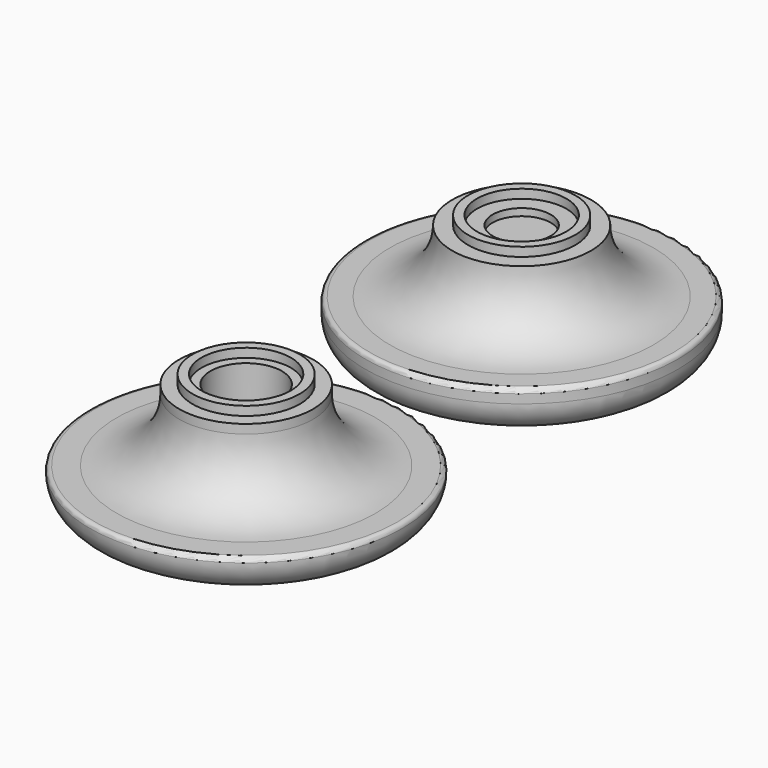
from build123d import *

# Parameters (mm, degrees)
SKETCH_R      = 17.5
PAD_DEPTH     = 5
SKETCH001_R   = 7.75
SKETCH001_R_2 = 3.25
PAD001_DEPTH  = 12
SKETCH002_R   = 6
SKETCH002_R_2 = 5
PAD002_DEPTH  = 13
FILLET_R      = 6.99
FILLET001_R   = 3.5
SKETCH003_W   = 11
SKETCH003_H   = 11
POCKET_DEPTH  = 5
FILLET002_R   = 0.5
SKETCH004_W   = 10
SKETCH004_H   = 10
SKETCH004_R   = 0.005
PAD003_DEPTH  = 0.2
SKETCH005_R   = 17.5
PAD004_DEPTH  = 4
SKETCH006_R   = 7.5
SKETCH006_R_2 = 4
PAD005_DEPTH  = 12
SKETCH007_R   = 6
SKETCH007_R_2 = 5
PAD006_DEPTH  = 13
FILLET003_R   = 6.99
FILLET004_R   = 3.5
FILLET005_R   = 0.499


with BuildPart() as knob_nut:
    # Sketch (on XY_Plane of Origin) → Pad (new body)
    with BuildSketch(Plane.XY):
        Circle(SKETCH_R)
    extrude(amount=PAD_DEPTH)

    # Sketch001 (on XY_Plane of Origin) → Pad001 (join)
    with BuildSketch(Plane.XY):
        Circle(SKETCH001_R)
        Circle(SKETCH001_R_2, mode=Mode.SUBTRACT)
    extrude(amount=PAD001_DEPTH)

    # Sketch002 (on XY_Plane of Origin) → Pad002 (join)
    with BuildSketch(Plane.XY):
        Circle(SKETCH002_R)
        Circle(SKETCH002_R_2, mode=Mode.SUBTRACT)
    extrude(amount=PAD002_DEPTH)

    # Fillet
    fillet_edges = [knob_nut.edges().sort_by_distance(p)[0] for p in [
        (-7.75, 0, 5),
    ]]
    fillet(fillet_edges, radius=FILLET_R)

    # Fillet001
    fillet001_edges = [knob_nut.edges().sort_by_distance(p)[0] for p in [
        (-17.5, 0, 0),
    ]]
    fillet(fillet001_edges, radius=FILLET001_R)

    # Sketch003 (on XY_Plane of Origin) → Pocket (cut)
    with BuildSketch(Plane.XY.offset(6)):
        Rectangle(SKETCH003_W, SKETCH003_H)
    extrude(amount=POCKET_DEPTH, mode=Mode.SUBTRACT)

    # Fillet002
    fillet002_edges = [knob_nut.edges().sort_by_distance(p)[0] for p in [
        (-17.5, 0, 5),
    ]]
    fillet(fillet002_edges, radius=FILLET002_R)

    # Sketch004 (on XY_Plane of Origin) → Pad003 (join)
    with BuildSketch(Plane.XY.offset(11)):
        Rectangle(SKETCH004_W, SKETCH004_H)
        Circle(SKETCH004_R, mode=Mode.SUBTRACT)
    extrude(amount=PAD003_DEPTH)


with BuildPart() as knob_insert:
    # Sketch005 (on XY_Plane of Origin002) → Pad004 (new body)
    with BuildSketch(Plane.XY):
        Circle(SKETCH005_R)
    extrude(amount=PAD004_DEPTH)

    # Sketch006 (on XY_Plane of Origin002) → Pad005 (join)
    with BuildSketch(Plane.XY):
        Circle(SKETCH006_R)
        Circle(SKETCH006_R_2, mode=Mode.SUBTRACT)
    extrude(amount=PAD005_DEPTH)

    # Sketch007 (on XY_Plane of Origin002) → Pad006 (join)
    with BuildSketch(Plane.XY):
        Circle(SKETCH007_R)
        Circle(SKETCH007_R_2, mode=Mode.SUBTRACT)
    extrude(amount=PAD006_DEPTH)

    # Fillet003
    fillet003_edges = [knob_insert.edges().sort_by_distance(p)[0] for p in [
        (-7.5, 0, 4),
    ]]
    fillet(fillet003_edges, radius=FILLET003_R)

    # Fillet004
    fillet004_edges = [knob_insert.edges().sort_by_distance(p)[0] for p in [
        (-17.5, 0, 0),
    ]]
    fillet(fillet004_edges, radius=FILLET004_R)

    # Fillet005
    fillet005_edges = [knob_insert.edges().sort_by_distance(p)[0] for p in [
        (-17.5, 0, 4),
    ]]
    fillet(fillet005_edges, radius=FILLET005_R)


with BuildPart() as knob_insert_1:
    # Body001 placement: moved
    add(knob_insert.part.moved(Location((0, -38.538, 0))))


solid = Compound([knob_nut.part, knob_insert_1.part])
